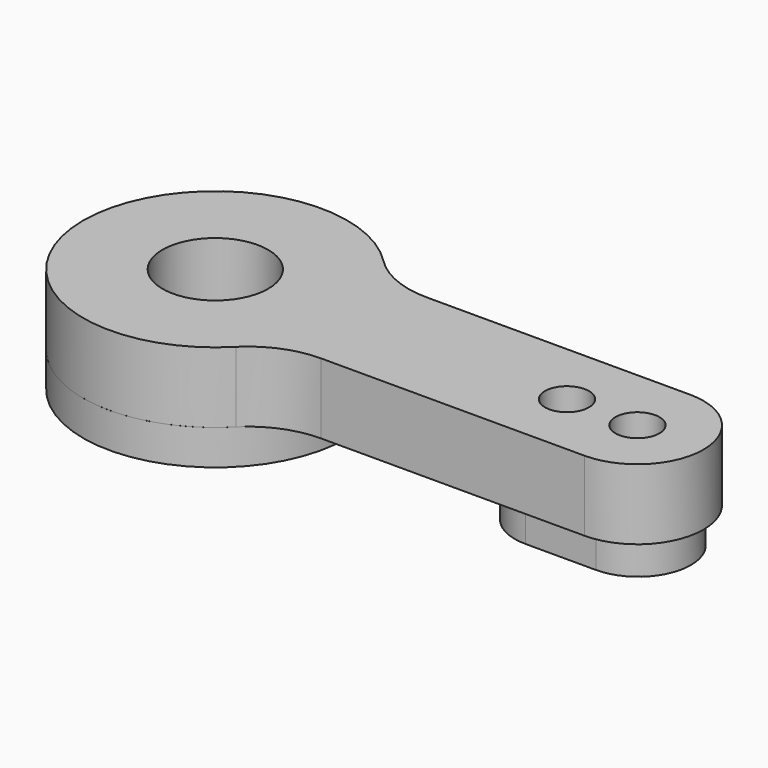
from build123d import *

# Parameters (mm, degrees)
SKETCH_R      = 3
SKETCH_R_2    = 1.25
PAD_DEPTH     = 4
SKETCH001_R   = 7.5
SKETCH001_R_2 = 3
PAD001_DEPTH  = 2
SKETCH002_R   = 1.25
PAD002_DEPTH  = 2


with BuildPart() as part:
    # Sketch → Pad (new body)
    with BuildSketch(Plane.XY):
        with BuildLine():
            Line((9, 3.750318), (23.96134, 3.750318))
            ThreePointArc((23.96134, -3.749682), (27.71134, 0.000318), (23.96134, 3.750318))
            Line((9, -3.749682), (23.96134, -3.749682))
            ThreePointArc((9, -3.749682), (7.034594, -4.137023), (5.36312, -5.241118))
            ThreePointArc((5.338537, 5.266156), (-7.498804, -0.017545), (5.36312, -5.241118))
            ThreePointArc((5.338537, 5.266156), (7.018581, 4.144257), (9, 3.750318))
        make_face()
        Circle(SKETCH_R, mode=Mode.SUBTRACT)
        with Locations((23.96134, 0.000318)):
            Circle(SKETCH_R_2, mode=Mode.SUBTRACT)
        with Locations((19.96134, 0)):
            Circle(SKETCH_R_2, mode=Mode.SUBTRACT)
    extrude(amount=PAD_DEPTH)

    # Sketch001 (on Face10 of Pad) → Pad001 (join)
    with BuildSketch(Plane(origin=(0, 0, 0), x_dir=(1, 0, 0), z_dir=(0, 0, -1))):
        Circle(SKETCH001_R)
        Circle(SKETCH001_R_2, mode=Mode.SUBTRACT)
    extrude(amount=PAD001_DEPTH)

    # Sketch002 (on Face5 of Pad001) → Pad002 (join)
    with BuildSketch(Plane(origin=(0, 0, 0), x_dir=(1, 0, 0), z_dir=(0, 0, -1))):
        with BuildLine():
            ThreePointArc((20, 3), (17, 0), (20, -3))
            Line((20, -3), (24, -3))
            ThreePointArc((24, -3), (27, 0), (24, 3))
            Line((20, 3), (24, 3))
        make_face()
        with Locations((20, 0)):
            Circle(SKETCH002_R, mode=Mode.SUBTRACT)
        with Locations((24, 0)):
            Circle(SKETCH002_R, mode=Mode.SUBTRACT)
    extrude(amount=PAD002_DEPTH)


solid = part.part
